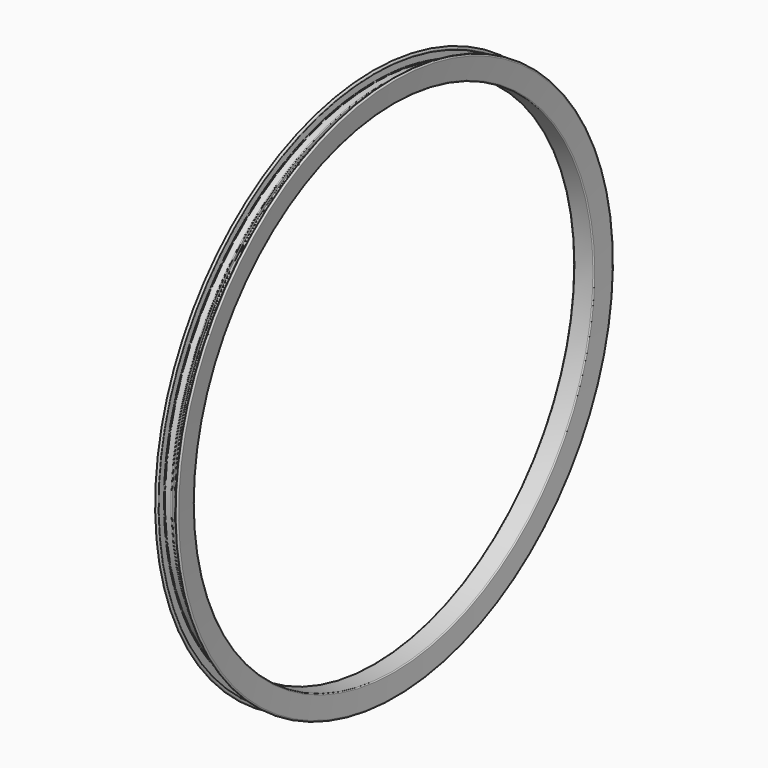
from build123d import *

# Parameters (mm, degrees)
F2_R = 0.762


with BuildPart() as f1:
    # F0 (on Front) → F1 (revolve)
    with BuildSketch(Plane.XZ):
        with BuildLine():
            Line((-10.1924704261, 279.4), (0, 279.4))
            Line((0, 279.4), (10.1924704261, 279.4))
            ThreePointArc((10.1924704261, 279.4), (10.9719945516, 279.707062719), (11.3326861355, 280.4632683505))
            Line((11.3326861355, 280.4632683505), (12.9204738914, 303.169691134))
            ThreePointArc((12.9204738914, 303.169691134), (12.5503636791, 304.2758339602), (11.5064951448, 304.7962876126))
            ThreePointArc((11.5064951448, 304.7962876126), (11.4533731118, 304.7990716204), (11.4001862788, 304.8))
            ThreePointArc((11.4001862788, 304.8), (9.8920811222, 303.4955332242), (10.9656991561, 301.815247817))
            ThreePointArc((10.9656991561, 301.815247817), (11.1931742652, 301.6504412846), (11.2675750538, 301.3795711293))
            Line((11.2675750538, 301.3795711293), (10.7252526899, 293.624))
            Line((10.7252526899, 293.624), (10.6186842285, 292.1))
            Line((10.6186842285, 292.1), (9.8619658336, 281.2784227835))
            ThreePointArc((9.8619658336, 281.2784227835), (9.7417353056, 281.0263542397), (9.4818939304, 280.924))
            Line((9.4818939304, 280.924), (0, 280.924))
            Line((0, 280.924), (-9.4818939304, 280.924))
            ThreePointArc((-9.4818939304, 280.924), (-9.7417353056, 281.0263542397), (-9.8619658336, 281.2784227835))
            Line((-9.8619658336, 281.2784227835), (-10.6186842285, 292.1))
            Line((-10.6186842285, 292.1), (-10.7252526899, 293.624))
            Line((-10.7252526899, 293.624), (-11.2675750538, 301.3795711293))
            ThreePointArc((-11.2675750538, 301.3795711293), (-11.1931742652, 301.6504412846), (-10.9656991561, 301.815247817))
            ThreePointArc((-10.9656991561, 301.815247817), (-10.5322174713, 304.5286795876), (-12.9204738914, 303.169691134))
            Line((-12.9204738914, 303.169691134), (-11.3326861355, 280.4632683505))
            ThreePointArc((-11.3326861355, 280.4632683505), (-10.9719945516, 279.707062719), (-10.1924704261, 279.4))
        make_face()
        with BuildLine():
            ThreePointArc((11.4001862788, 304.8), (11.4533731118, 304.7990716204), (11.5064951448, 304.7962876126))
            Line((11.5064951448, 304.7962876126), (11.5067547402, 304.8))
            Line((11.5067547402, 304.8), (11.4001862788, 304.8))
        make_face()
        Polygon((-2.5334714446, 293.624), (-10.7252526899, 293.624), (-10.6186842285, 292.1), (-4.064, 292.1), (-4.064, 287.5092029572), (4.064, 287.5092029572), (4.064, 292.1), (10.6186842285, 292.1), (10.7252526899, 293.624), (2.54, 293.624), (2.54, 289.0332029572), (-2.5334714446, 289.0332029572), align=None)
    revolve(axis=Axis((45.0627654791, 0, 0), (1, 0, 0)))

    # F2
    f2_edges = [f1.edges().sort_by_distance(p)[0] for p in [
        (-2.533471, 0, -293.624),
        (-2.533471, 0, -289.033203),
        (2.54, 0, -293.624),
        (2.54, 0, -289.033203),
        (10.725253, 0, -293.624),
        (-10.725253, 0, -293.624),
    ]]
    fillet(f2_edges, radius=F2_R)


solid = f1.part
